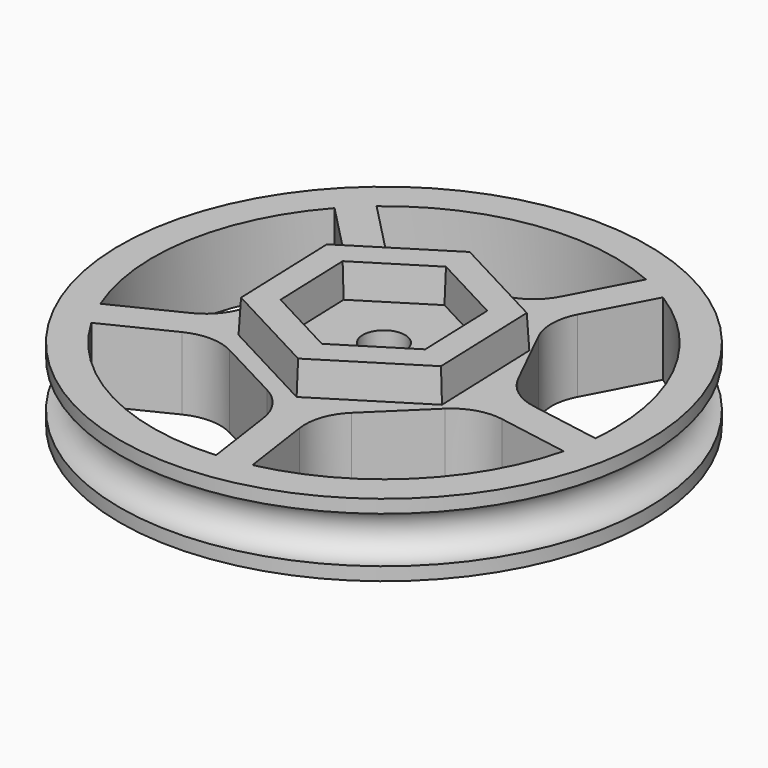
from build123d import *

# Parameters (mm, degrees)
F3_DEPTH = 6.986
F5_DEPTH = 3.175
F5_TAPER = 3
F7_D     = 4.064
F8_R     = 5.08


with BuildPart() as f1:
    # F0 (on Right) → F1 (revolve)
    with BuildSketch(Plane.YZ):
        with BuildLine():
            Line((0, 6.985), (0, 0))
            Line((0, 0), (25.4, 0))
            Line((25.4, 0), (25.4, 1.27))
            ThreePointArc((25.4, 1.27), (23.1775, 3.4925), (25.4, 5.715))
            Line((25.4, 5.715), (25.4, 6.985))
            Line((25.4, 6.985), (0, 6.985))
        make_face()
    revolve(axis=Axis((0, 0, 3.4925), (0, 0, -1)))

    # F2 (on face) → F3 (cut, through all)
    with BuildSketch(Plane(origin=(0, 0, 0), x_dir=(1, 0, 0), z_dir=(0, 0, -1))):
        with BuildLine():
            Line((0.2169925916, 12.6803131585), (1.5794517729, 22.1688059466))
            ThreePointArc((1.5794517729, 22.1688059466), (-10.3752942251, 19.6546151004), (-19.1953566714, 11.2021831469))
            Line((-19.1953566714, 11.2021831469), (-10.5922868167, 6.9743019418))
            Line((-10.5922868167, 6.9743019418), (0.2169925916, 12.6803131585))
        make_face()
        with BuildLine():
            Line((12.1267488565, 3.7120600417), (21.5718647936, 5.3483898817))
            ThreePointArc((21.5718647936, 5.3483898817), (15.4865075293, 15.9411012651), (4.722217854, 21.7175340115))
            Line((4.722217854, 21.7175340115), (3.3597586727, 12.2290412234))
            Line((3.3597586727, 12.2290412234), (12.1267488565, 3.7120600417))
        make_face()
        with BuildLine():
            ThreePointArc((11.7526938703, -18.8633192146), (19.4313438324, -10.787655068), (22.225, 0))
            ThreePointArc((22.225, 0), (22.1971945583, 1.1113859542), (22.1138478075, 2.2199910241))
            Line((22.1138478075, 2.2199910241), (12.6687318704, 0.5836611841))
            Line((12.6687318704, 0.5836611841), (7.2777503747, -10.3861338845))
            Line((7.2777503747, -10.3861338845), (11.7526938703, -18.8633192146))
        make_face()
        with BuildLine():
            ThreePointArc((-14.3083005224, -17.006562297), (-3.1589035458, -21.9993625678), (8.9448917131, -20.3455041039))
            Line((8.9448917131, -20.3455041039), (4.4699482176, -11.8683187738))
            Line((4.4699482176, -11.8683187738), (-7.6288517633, -10.131043794))
            Line((-7.6288517633, -10.131043794), (-14.3083005224, -17.006562297))
        make_face()
        with BuildLine():
            ThreePointArc((-20.5957099144, 8.3526856833), (-21.8987920037, -3.7938810973), (-16.5856007031, -14.7942040785))
            Line((-16.5856007031, -14.7942040785), (-9.906151944, -7.9186855756))
            Line((-9.906151944, -7.9186855756), (-11.9926400596, 4.1248044782))
            Line((-11.9926400596, 4.1248044782), (-20.5957099144, 8.3526856833))
        make_face()
    extrude(amount=-F3_DEPTH, mode=Mode.SUBTRACT)

    # F4 (on face) → F5 (join)
    with BuildSketch(Plane.XY.offset(6.985)):
        Polygon((9.7145011491, -5.157127827), (9.3234542833, 5.8344408667), (-0.3910468658, 10.9915686937), (-9.7145011491, 5.157127827), (-9.3234542833, -5.8344408667), (0.3910468658, -10.9915686937), align=None)
        Polygon((-6.7353874634, 3.5756086268), (-0.2711258269, 7.620820961), (6.4642616364, 4.0452123342), (6.7353874634, -3.5756086268), (0.2711258269, -7.620820961), (-6.4642616364, -4.0452123342), align=None, mode=Mode.SUBTRACT)
    extrude(amount=F5_DEPTH, taper=F5_TAPER)

    # F7 (through all)
    with Locations(Plane.XY.offset(6.985)):
        with Locations((0, 0)):
            Hole(F7_D / 2)

    # F8
    f8_edges = [f1.edges().sort_by_distance(p)[0] for p in [
        (-11.99264, -4.124804, 3.4925),
        (-9.906152, 7.918686, 3.4925),
        (4.469948, 11.868319, 3.4925),
        (0.216993, -12.680313, 3.4925),
        (7.27775, 10.386134, 3.4925),
        (12.668732, -0.583661, 3.4925),
        (3.359759, -12.229041, 3.4925),
        (12.126749, -3.71206, 3.4925),
        (-7.628852, 10.131044, 3.4925),
        (-10.592287, -6.974302, 3.4925),
    ]]
    fillet(f8_edges, radius=F8_R)


solid = f1.part
